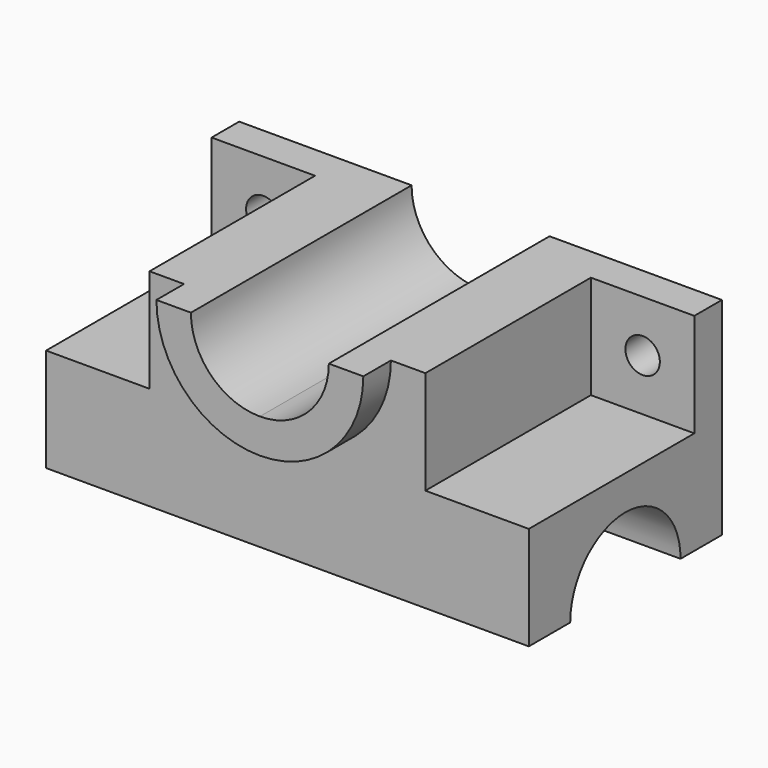
from build123d import *

# Parameters (mm, degrees)
F1_DEPTH = 70
F0_W     = 30
F0_H     = 30
F0_R     = 5
F2_DEPTH = 10
F3_DEPTH = 80
F6_DEPTH = 140.001


with BuildPart() as f1:
    # F0 (on Front) → F1 (new body)
    with BuildSketch(Plane.XZ):
        with BuildLine():
            ThreePointArc((0, 30), (-21.2132034356, 38.7867965644), (-30, 60))
            Line((-30, 60), (-40, 60))
            Line((-40, 60), (-40, 30))
            Line((-40, 30), (-70, 30))
            Line((-70, 30), (-70, 0))
            Line((-70, 0), (0, 0))
            Line((0, 0), (0, 30))
        make_face()
    extrude(amount=F1_DEPTH)

    # F0 (on Front) → F2 (join)
    with BuildSketch(Plane.XZ):
        with Locations((-55, 45)):
            Rectangle(F0_W, F0_H)
        with Locations((-55, 45)):
            Circle(F0_R, mode=Mode.SUBTRACT)
    extrude(amount=F2_DEPTH)

    # F0 (on Front) → F3 (join)
    with BuildSketch(Plane.XZ):
        with BuildLine():
            ThreePointArc((0, 40), (-14.1421356237, 45.8578643763), (-20, 60))
            Line((-20, 60), (-30, 60))
            ThreePointArc((-30, 60), (-21.2132034356, 38.7867965644), (0, 30))
            Line((0, 30), (0, 40))
        make_face()
    extrude(amount=F3_DEPTH)

    # F4: F1 across plane


with BuildPart() as f1_1:
    add(f1.part)
    add(f1.part.mirror(Plane.YZ))

    # F5 (on face) → F6 (cut, through all)
    with BuildSketch(Plane(origin=(-70, 0, 0), x_dir=(0, -1, 0), z_dir=(-1, 0, 0))):
        with BuildLine():
            Line((15, 0), (55, 0))
            ThreePointArc((55, 0), (35, 20), (15, 0))
        make_face()
    extrude(amount=-F6_DEPTH, mode=Mode.SUBTRACT)


solid = f1_1.part
